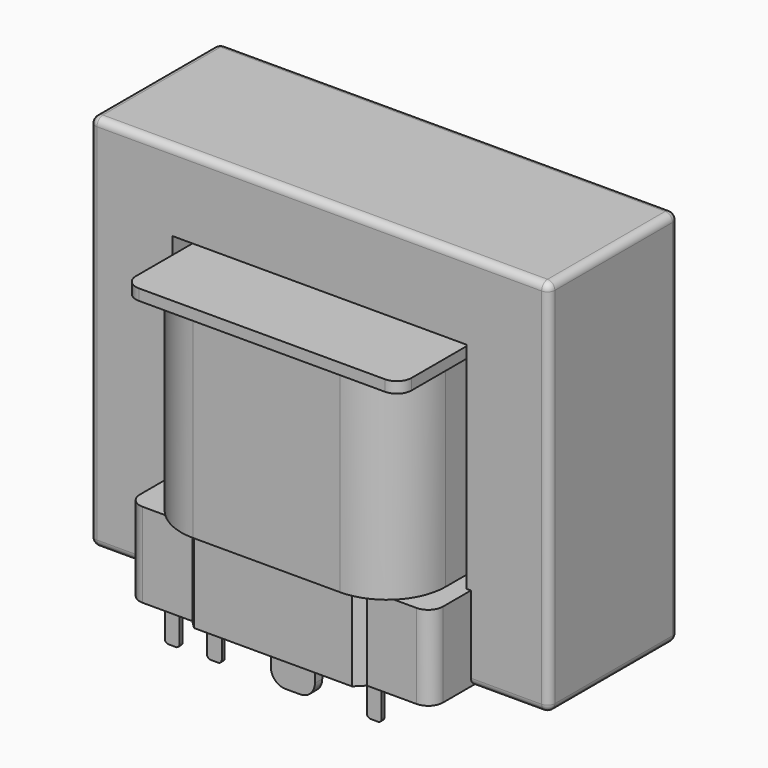
from build123d import *

# Parameters (mm, degrees)
SKETCH001_W       = 36
SKETCH001_H       = 40
PAD001_DEPTH      = 26.5
SKETCH002_W       = 37.5
SKETCH002_H       = 41.5
PAD002_DEPTH      = 1.5
FILLET_R          = 8
PAD_DEPTH         = 11.5
FILLET001_R       = 2
FILLET002_R       = 2
SKETCH005_W       = 2
SKETCH005_H       = 0.5
SKETCH005_W_2     = 6
SKETCH005_H_2     = 1.25
PAD004_DEPTH      = 5.5
FILLET005_R       = 2
FILLET006_R       = 0.5
SKETCH003_W       = 62.5
SKETCH003_H       = 51.5
SKETCH003_W_2     = 40
SKETCH003_H_2     = 30
PAD003_DEPTH      = 11
PAD003_DEPTH_BACK = 11
FILLET003_R       = 1
FILLET004_R       = 1


with BuildPart() as body:
    # Sketch001 → Pad001 (new body)
    with BuildSketch(Plane.XY):
        Rectangle(SKETCH001_W, SKETCH001_H)
    extrude(amount=PAD001_DEPTH)

    # Sketch002 (on Face6 of Pad001) → Pad002 (join)
    with BuildSketch(Plane.XY.offset(26.5)):
        Rectangle(SKETCH002_W, SKETCH002_H)
    extrude(amount=PAD002_DEPTH)

    # Fillet
    fillet_edges = [body.edges().sort_by_distance(p)[0] for p in [
        (-18, -20, 13.25),
        (18, -20, 13.25),
        (-18, 20, 13.25),
        (18, 20, 13.25),
    ]]
    fillet(fillet_edges, radius=FILLET_R)

    # Sketch → Pad (join)
    with BuildSketch(Plane.XY):
        Polygon((-20.625, 17.75), (-20.625, -17.75), (-11.875, -17.75), (-10.75, -18.875), (10.75, -18.875), (11.875, -17.75), (20.625, -17.75), (20.625, 17.75), (11.875, 17.75), (10.75, 18.875), (-10.75, 18.875), (-11.875, 17.75), align=None)
    extrude(amount=-PAD_DEPTH)

    # Fillet001
    fillet001_edges = [body.edges().sort_by_distance(p)[0] for p in [
        (-18.75, 20.75, 27.25),
        (-18.75, -20.75, 27.25),
        (18.75, -20.75, 27.25),
        (18.75, 20.75, 27.25),
    ]]
    fillet(fillet001_edges, radius=FILLET001_R)

    # Fillet002
    fillet002_edges = [body.edges().sort_by_distance(p)[0] for p in [
        (20.625, -17.75, -5.75),
        (20.625, 17.75, -5.75),
        (-20.625, -17.75, -5.75),
        (-20.625, 17.75, -5.75),
    ]]
    fillet(fillet002_edges, radius=FILLET002_R)

    # Sketch005 (on Face11 of Fillet002) → Pad004 (join)
    with BuildSketch(Plane(origin=(0, 0, -11.5), x_dir=(1, 0, 0), z_dir=(0, 0, -1))):
        with Locations((-16.625, 15)):
            Rectangle(SKETCH005_W, SKETCH005_H)
        with Locations((-10.875, 15)):
            Rectangle(SKETCH005_W, SKETCH005_H)
        with Locations((0, 14.875)):
            Rectangle(SKETCH005_W_2, SKETCH005_H_2)
        with Locations((10.875, 15)):
            Rectangle(SKETCH005_W, SKETCH005_H)
        with Locations((-16.625, -15)):
            Rectangle(SKETCH005_W, SKETCH005_H)
        with Locations((10.875, -15)):
            Rectangle(SKETCH005_W, SKETCH005_H)
        with Locations((0, -14.875)):
            Rectangle(SKETCH005_W_2, SKETCH005_H_2)
    extrude(amount=PAD004_DEPTH)

    # Fillet005
    fillet005_edges = [body.edges().sort_by_distance(p)[0] for p in [
        (3, -14.875, -17),
        (-3, -14.875, -17),
        (3, 14.875, -17),
        (-3, 14.875, -17),
    ]]
    fillet(fillet005_edges, radius=FILLET005_R)

    # Fillet006
    fillet006_edges = [body.edges().sort_by_distance(p)[0] for p in [
        (11.875, 15, -17),
        (9.875, 15, -17),
        (-15.625, 15, -17),
        (-17.625, 15, -17),
        (-9.875, -15, -17),
        (-11.875, -15, -17),
        (-15.625, -15, -17),
        (-17.625, -15, -17),
        (11.875, -15, -17),
        (9.875, -15, -17),
    ]]
    fillet(fillet006_edges, radius=FILLET006_R)


with BuildPart() as body001:
    # Sketch003 → Pad003 (new body, two sides)
    with BuildSketch(Plane.XZ) as pad003_sk:
        with Locations((0, 14.25)):
            Rectangle(SKETCH003_W, SKETCH003_H)
        with Locations((0, 14.25)):
            Rectangle(SKETCH003_W_2, SKETCH003_H_2, mode=Mode.SUBTRACT)
    extrude(amount=PAD003_DEPTH)
    extrude(pad003_sk.sketch, amount=-PAD003_DEPTH_BACK)

    # Fillet003
    fillet003_edges = [body001.edges().sort_by_distance(p)[0] for p in [
        (31.25, 0, -11.5),
        (31.25, 0, 40),
        (-31.25, 0, 40),
        (-31.25, 0, -11.5),
    ]]
    fillet(fillet003_edges, radius=FILLET003_R)

    # Fillet004
    fillet004_edges = [body001.edges().sort_by_distance(p)[0] for p in [
        (-31.25, 11, 14.25),
        (-31.25, -11, 14.25),
    ]]
    fillet(fillet004_edges, radius=FILLET004_R)


solid = Compound([body.part, body001.part])
